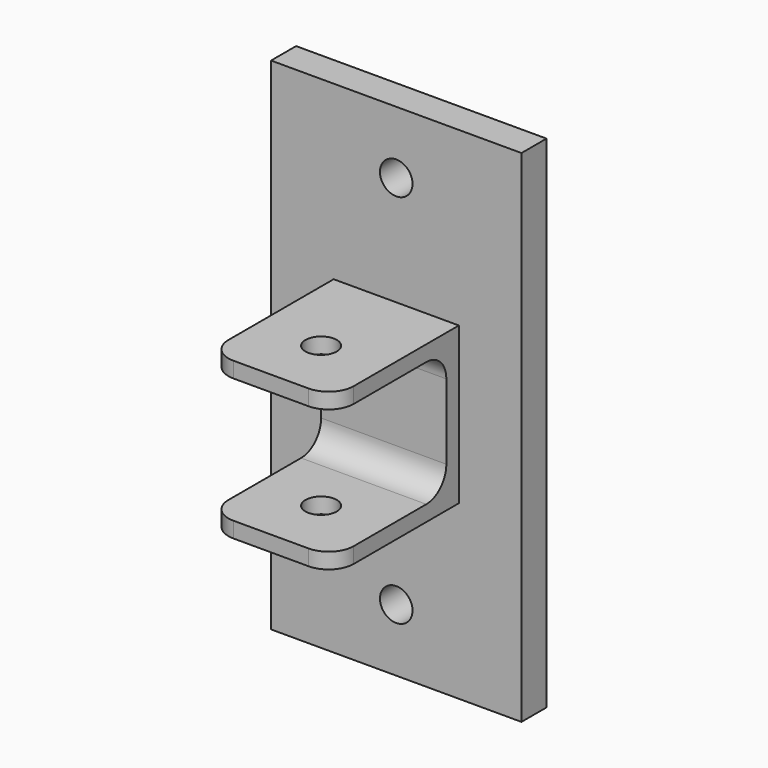
from build123d import *

# Parameters (mm, degrees)
F0_W     = 50.8
F0_H     = 101.6
F0_R     = 3.302
F1_DEPTH = 6.35
F2_W     = 25.4
F2_H     = 3.175
F3_DEPTH = 31.75
F2_H_2   = 25.4
F4_DEPTH = 3.175
F5_R     = 5.08
F6_R     = 5.08
F7_R     = 3.175
F8_DEPTH = 66.676


with BuildPart() as f1:
    # F0 (on Front) → F1 (new body)
    with BuildSketch(Plane.XZ):
        Rectangle(F0_W, F0_H)
        with Locations((0, -38.1)):
            Circle(F0_R, mode=Mode.SUBTRACT)
        with Locations((0, 38.1)):
            Circle(F0_R, mode=Mode.SUBTRACT)
    extrude(amount=F1_DEPTH)

    # F2 (on face) → F3 (join)
    with BuildSketch(Plane.XZ.offset(6.35)):
        with Locations((0, -14.2875)):
            Rectangle(F2_W, F2_H)
        with Locations((0, 14.2875)):
            Rectangle(F2_W, F2_H)
    extrude(amount=F3_DEPTH)

    # F2 (on face) → F4 (join)
    with BuildSketch(Plane.XZ.offset(6.35)):
        with Locations((0, 14.2875)):
            Rectangle(F2_W, F2_H)
        Rectangle(F2_W, F2_H_2)
        with Locations((0, -14.2875)):
            Rectangle(F2_W, F2_H)
    extrude(amount=F4_DEPTH)

    # F5
    f5_edges = [f1.edges().sort_by_distance(p)[0] for p in [
        (0, -9.525, -12.7),
        (0, -9.525, 12.7),
    ]]
    fillet(f5_edges, radius=F5_R)

    # F6
    f6_edges = [f1.edges().sort_by_distance(p)[0] for p in [
        (12.7, -38.1, 14.2875),
        (-12.7, -38.1, 14.2875),
        (12.7, -38.1, -14.2875),
        (-12.7, -38.1, -14.2875),
    ]]
    fillet(f6_edges, radius=F6_R)

    # F7 (on face) → F8 (cut, through all)
    with BuildSketch(Plane.XY.offset(15.875)):
        with Locations((0, -25.4)):
            Circle(F7_R)
    extrude(amount=-F8_DEPTH, mode=Mode.SUBTRACT)


solid = f1.part
